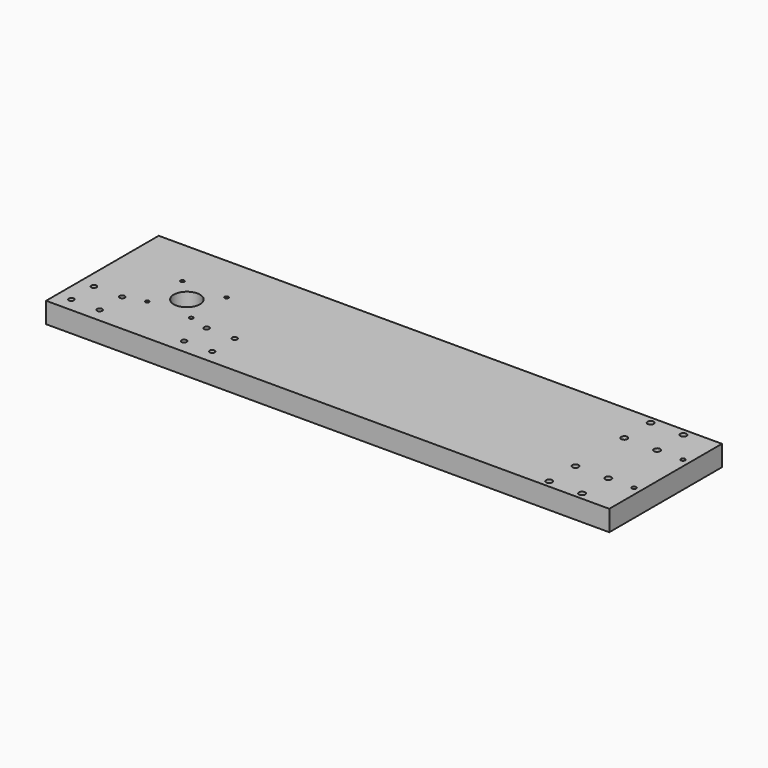
from build123d import *

# Parameters (mm, degrees)
F0_W     = 600
F0_H     = 150
F1_DEPTH = 22
F2_D     = 6.6
F3_D     = 5.5
F4_D     = 28
F5_D     = 4.5
F6_D     = 4


with BuildPart() as f1:
    # F0 (on Top) → F1 (new body)
    with BuildSketch(Plane.XY):
        with Locations((269.0510096401, 81.4705566212)):
            Rectangle(F0_W, F0_H)
    extrude(amount=F1_DEPTH)

    # F2 (through all)
    with Locations(Plane(origin=(0, 0, 0), x_dir=(1, 0, 0), z_dir=(0, 0, -1))):
        with Locations((499.0510096401, -113.9705566212), (534.0510096401, -113.9705566212), (499.0510096401, -148.9705566212), (534.0510096401, -148.9705566212), (534.0510096401, -13.9705566212), (499.0510096401, -48.9705566212), (499.0510096401, -13.9705566212), (534.0510096401, -48.9705566212)):
            Hole(F2_D / 2)

    # F3 (through all)
    with Locations(Plane(origin=(0, 0, 0), x_dir=(1, 0, 0), z_dir=(0, 0, -1))):
        with Locations((-15.9489903599, -21.4705566212), (14.0510096401, -21.4705566212), (104.0510096401, -51.4705566212), (104.0510096401, -21.4705566212), (14.0510096401, -51.4705566212), (134.0510096401, -51.4705566212), (134.0510096401, -21.4705566212), (-15.9489903599, -51.4705566212)):
            Hole(F3_D / 2)

    # F4 (through all)
    with Locations(Plane(origin=(0, 0, 0), x_dir=(1, 0, 0), z_dir=(0, 0, -1))):
        with Locations((59.0510096401, -81.4705566212)):
            Hole(F4_D / 2)

    # F5 (through all)
    with Locations(Plane(origin=(0, 0, 0), x_dir=(1, 0, 0), z_dir=(0, 0, -1))):
        with Locations((561.5510096401, -113.9705566212), (561.5510096401, -48.9705566212)):
            Hole(F5_D / 2)

    # F6 (through all)
    with Locations(Plane(origin=(0, 0, 0), x_dir=(1, 0, 0), z_dir=(0, 0, -1))):
        with Locations((82.5510096401, -104.9705566212), (35.5510096401, -104.9705566212), (35.5510096401, -57.9705566212), (82.5510096401, -57.9705566212)):
            Hole(F6_D / 2)


solid = f1.part
